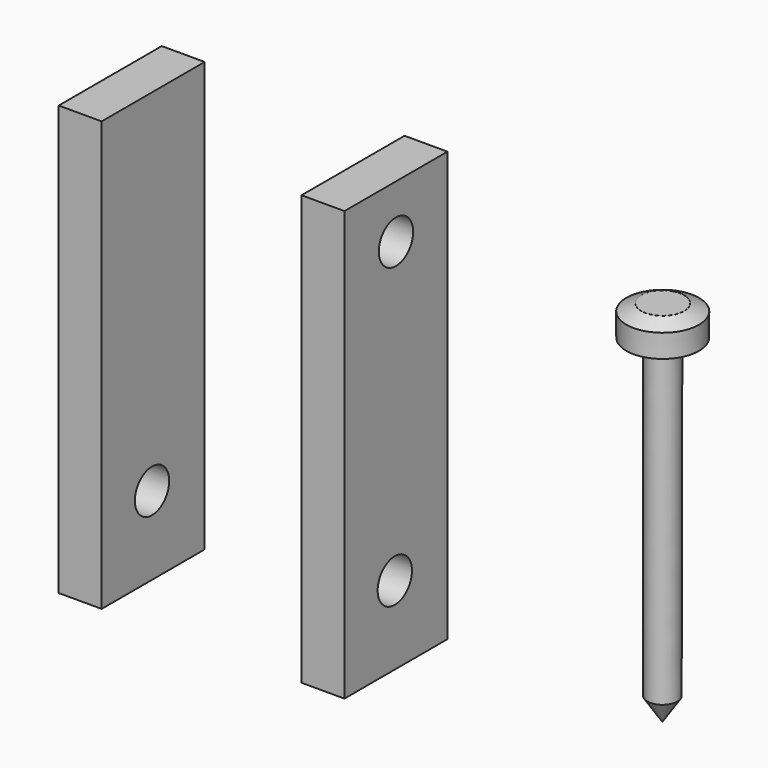
from build123d import *

# Parameters (mm, degrees)
F0_W     = 10
F0_H     = 100
F1_DEPTH = 30
F2_R     = 5
F3_DEPTH = 66.5735150518
F6_R     = 5
F7_DEPTH = 68.6219408258


with BuildPart() as f1:
    # F0 (on Front) → F1 (new body)
    with BuildSketch(Plane.XZ):
        with Locations((9.6479771845, 12.1521905065)):
            Rectangle(F0_W, F0_H)
    extrude(amount=F1_DEPTH)


with BuildPart() as f1b:
    # F0 (on Front) → F1, piece 2 (new body)
    with BuildSketch(Plane.XZ):
        with Locations((-46.9245378673, 12.1521905065)):
            Rectangle(F0_W, F0_H)
    extrude(amount=F1_DEPTH)


with BuildPart() as f3_tool:
    # F2 (on face) → F3 (new body, through all)
    with BuildSketch(Plane(origin=(-51.9245378673, 0, 0), x_dir=(0, -1, 0), z_dir=(-1, 0, 0))):
        with Locations((15.3317916545, -19.5861064423)):
            Circle(F2_R)
    extrude(amount=-F3_DEPTH)


with BuildPart() as f1_1:
    add(f1.part)

    # F3: cut by f3_tool
    add(f3_tool.part, mode=Mode.SUBTRACT)

    # F6 (on face) → F7 (cut, through all)
    with BuildSketch(Plane(origin=(4.6479771845, 0, 0), x_dir=(0, -1, 0), z_dir=(-1, 0, 0))):
        with Locations((15, 49.7813969851)):
            Circle(F6_R)
    extrude(amount=-F7_DEPTH, mode=Mode.SUBTRACT)


with BuildPart() as f1b_1:
    add(f1b.part)

    # F3: cut by f3_tool
    add(f3_tool.part, mode=Mode.SUBTRACT)


with BuildPart() as f5:
    # F4 (on Front) → F5 (revolve)
    with BuildSketch(Plane.XZ):
        with BuildLine():
            Line((64.7227205336, -38.5385924019), (64.8008361459, 47.397878021))
            add(Edge.make_bspline(
                [(64.8008361459, 47.397878021), (63.1341694792, 47.397878021), (61.4675028125, 47.397878021), (59.8008361459, 47.397878021)],
                knots=[0, 0, 0, 0, 5, 5, 5, 5], degree=3))
            Line((59.8008361459, 47.397878021), (56.3296973705, 45.724093914))
            Line((56.3296973705, 45.724093914), (56.3296973705, 42.56253317))
            Line((56.3296973705, 42.56253317), (56.3296973705, 40.3494425118))
            Line((56.3296973705, 40.3494425118), (61.2158961594, 40.3494425118))
            Line((61.2158961594, 40.3494425118), (61.2158961594, -6.2264050357))
            Line((61.2158961594, -6.2264050357), (61.2158961594, -33.1972204149))
            Line((61.2158961594, -33.1972204149), (64.7227205336, -38.5385924019))
        make_face()
    revolve(axis=Axis((64.7617783397, 0, 4.4296428096), (0.0009089922, 0, 0.9999995869)))


solid = Compound([f1_1.part, f1b_1.part, f5.part])
